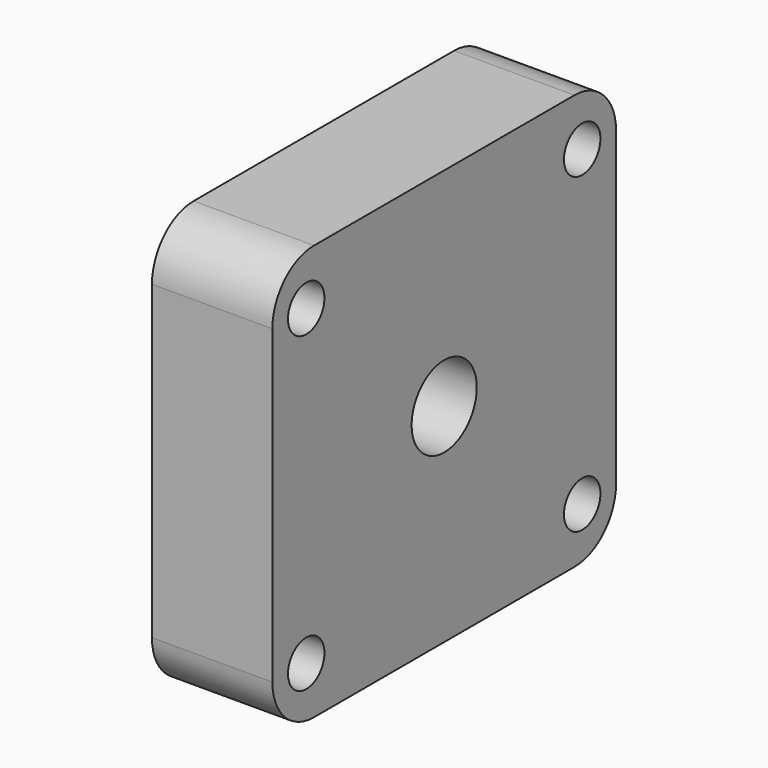
from build123d import *

# Parameters (mm, degrees)
F0_W     = 660
F0_H     = 638
F1_DEPTH = 185
F2_R     = 80
F3_R     = 62.5
F4_DEPTH = 185.001
F5_R     = 35
F6_DEPTH = 185.001


with BuildPart() as f1:
    # F0 (on Right) → F1 (new body)
    with BuildSketch(Plane.YZ):
        Rectangle(F0_W, F0_H)
    extrude(amount=F1_DEPTH)

    # F2
    f2_edges = [f1.edges().sort_by_distance(p)[0] for p in [
        (92.5, 330, 319),
        (92.5, -330, 319),
        (92.5, 330, -319),
        (92.5, -330, -319),
    ]]
    fillet(f2_edges, radius=F2_R)

    # F3 (on face) → F4 (cut, through all)
    with BuildSketch(Plane.YZ.offset(185)):
        Circle(F3_R)
    extrude(amount=-F4_DEPTH, mode=Mode.SUBTRACT)

    # F5 (on face) → F6 (cut, through all)
    with BuildSketch(Plane.YZ.offset(185)):
        with Locations((-265, 240)):
            Circle(F5_R)
        with Locations((265, 240)):
            Circle(F5_R)
        with Locations((265, -240)):
            Circle(F5_R)
        with Locations((-265, -240)):
            Circle(F5_R)
    extrude(amount=-F6_DEPTH, mode=Mode.SUBTRACT)


solid = f1.part
